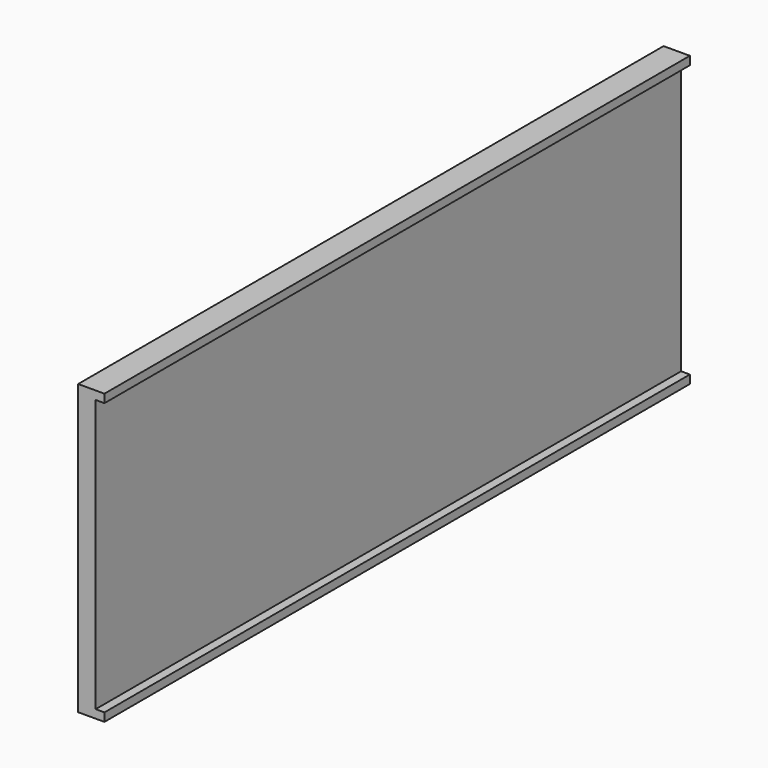
from build123d import *

# Parameters (mm, degrees)
F0_W     = 41.78606
F0_H     = 0.478756
F1_DEPTH = 1.5
F0_H_2   = 15.542488
F2_DEPTH = 1
F3_DEPTH = 1.5


with BuildPart() as f1:
    # F0 (on Right) → F1 (new body)
    with BuildSketch(Plane.YZ):
        with Locations((0, -8.010622)):
            Rectangle(F0_W, F0_H)
    extrude(amount=F1_DEPTH)

    # F0 (on Right) → F2 (join)
    with BuildSketch(Plane.YZ):
        with Locations((0, 8.010622)):
            Rectangle(F0_W, F0_H)
        Rectangle(F0_W, F0_H_2)
        with Locations((0, -8.010622)):
            Rectangle(F0_W, F0_H)
    extrude(amount=F2_DEPTH)

    # F0 (on Right) → F3 (join)
    with BuildSketch(Plane.YZ):
        with Locations((0, 8.010622)):
            Rectangle(F0_W, F0_H)
    extrude(amount=F3_DEPTH)


solid = f1.part
